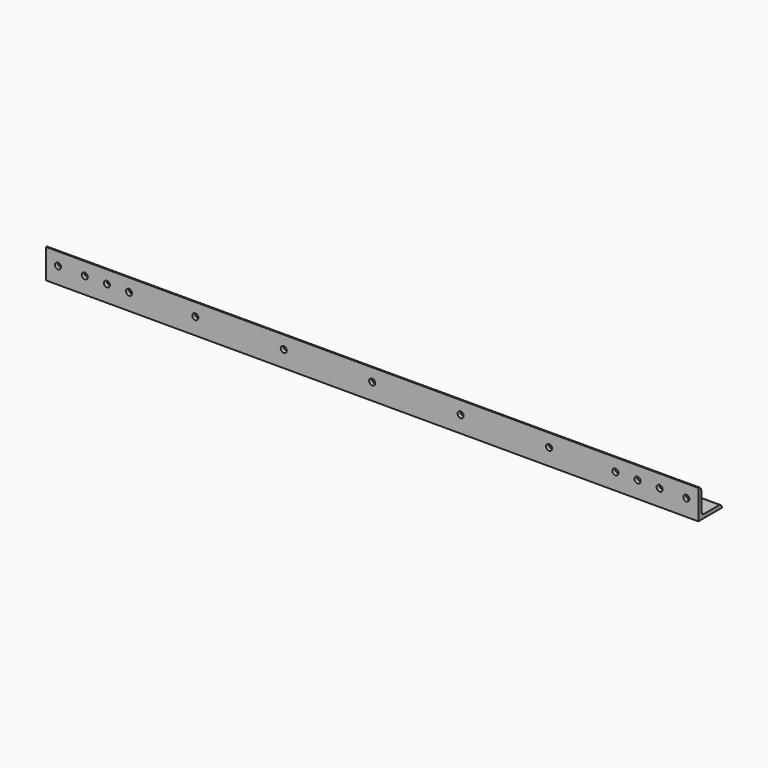
from build123d import *

# Parameters (mm, degrees)
F1_DEPTH = 561.975
F2_R     = 2.6162
F3_DEPTH = 25.4


with BuildPart() as f1:
    # F0 (on Right) → F1 (new body)
    with BuildSketch(Plane.YZ):
        with BuildLine():
            Line((0, -19.05), (0, -3.175))
            ThreePointArc((0, -3.175), (-0.929936, -0.929936), (-3.175, 0))
            Line((-3.175, 0), (-3.175, -25.4))
            Line((-3.175, -25.4), (22.225, -25.4))
            ThreePointArc((22.225, -25.4), (21.295064, -23.154936), (19.05, -22.225))
            Line((19.05, -22.225), (3.175, -22.225))
            ThreePointArc((3.175, -22.225), (0.929936, -21.295064), (0, -19.05))
        make_face()
    extrude(amount=-F1_DEPTH)

    # F2 (on face) → F3 (cut)
    with BuildSketch(Plane(origin=(0, 0, 0), x_dir=(-1, 0, 0), z_dir=(0, 1, 0))):
        with Locations((10.31875, -11.1125)):
            Circle(F2_R)
        with Locations((280.9875, -11.1125)):
            Circle(F2_R)
        with Locations((551.65625, -11.1125)):
            Circle(F2_R)
        with Locations((128.5875, -11.1125)):
            Circle(F2_R)
        with Locations((204.7875, -11.1125)):
            Circle(F2_R)
        with Locations((357.1875, -11.1125)):
            Circle(F2_R)
        with Locations((433.3875, -11.1125)):
            Circle(F2_R)
        with Locations((509.5875, -11.1125)):
            Circle(F2_R)
        with Locations((52.3875, -11.1125)):
            Circle(F2_R)
        with Locations((33.3375, -11.1125)):
            Circle(F2_R)
        with Locations((71.4375, -11.1125)):
            Circle(F2_R)
        with Locations((490.5375, -11.1125)):
            Circle(F2_R)
        with Locations((528.6375, -11.1125)):
            Circle(F2_R)
    extrude(amount=-F3_DEPTH, mode=Mode.SUBTRACT)


solid = f1.part
